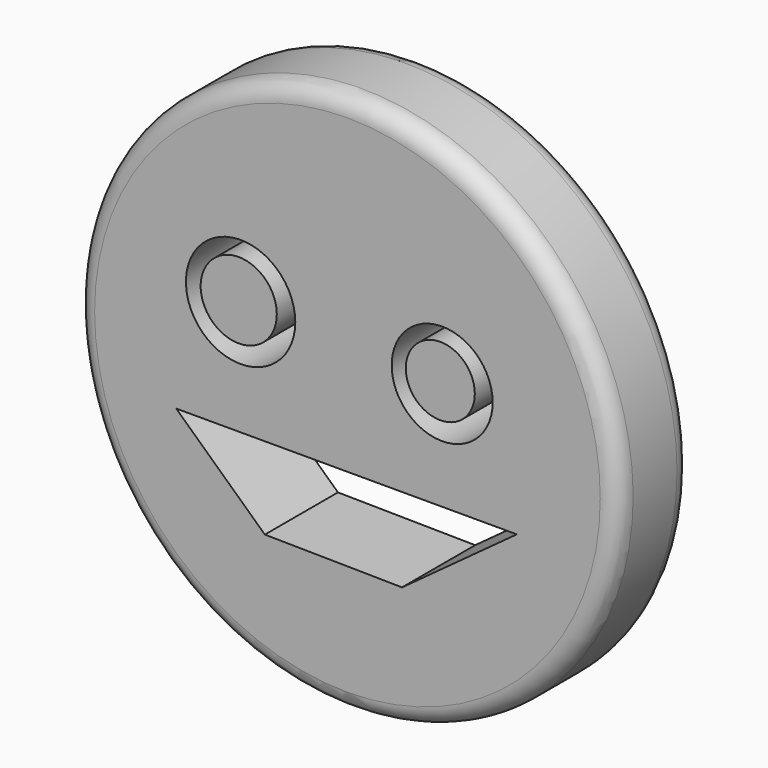
from build123d import *

# Parameters (mm, degrees)
F0_R     = 74.161185
F0_R_2   = 14.956578
F0_R_3   = 13.815137
F1_DEPTH = 25
F2_R     = 9.444896
F2_R_2   = 10.41291
F3_DEPTH = 25
F4_R     = 5


with BuildPart() as f1:
    # F0 (on Front) → F1 (new body)
    with BuildSketch(Plane.XZ):
        Circle(F0_R)
        Polygon((-22.591168, -38.548041), (-46.841573, -16.084507), (46.331033, -16.084507), (14.933145, -39.058577), align=None, mode=Mode.SUBTRACT)
        with Locations((-29.228121, 15.313388)):
            Circle(F0_R_2, mode=Mode.SUBTRACT)
        with Locations((25.909645, 13.526515)):
            Circle(F0_R_3, mode=Mode.SUBTRACT)
    extrude(amount=F1_DEPTH)

    # F4
    f4_edges = [f1.edges().sort_by_distance(p)[0] for p in [
        (74.161185, -12.5, 0),
        (-74.161185, 0, 0),
        (-74.161185, -25, 0),
    ]]
    fillet(f4_edges, radius=F4_R)


with BuildPart() as f3:
    # F2 (on Front) → F3 (new body)
    with BuildSketch(Plane.XZ):
        with Locations((25.399109, 14.03705)):
            Circle(F2_R)
        with Locations((-29.738655, 15.568655)):
            Circle(F2_R_2)
    extrude(amount=F3_DEPTH)


solid = Compound([f1.part, f3.part])
